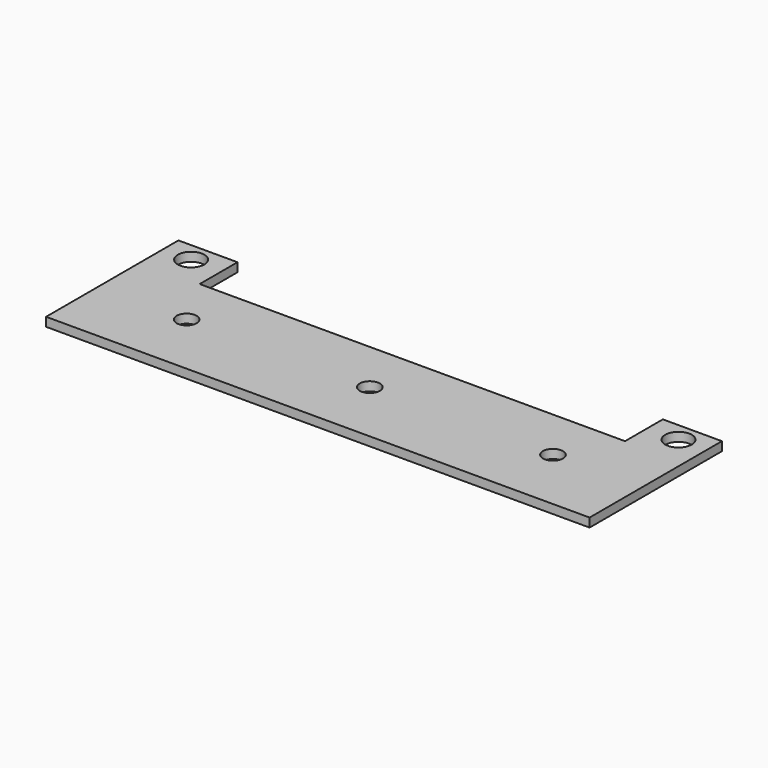
from build123d import *

# Parameters (mm, degrees)
PAD_DEPTH     = 1.5
SKETCH001_R   = 1.7
HOLE_DEPTH    = 25
SKETCH002_R   = 2.25
HOLE001_DEPTH = 25


with BuildPart() as part:
    # Sketch → Pad (new body)
    with BuildSketch(Plane.XY):
        Polygon((-36, 14), (-46, 14), (-46, -14), (46, -14), (46, 14), (36, 14), (36, 6), (-36, 6), align=None)
    extrude(amount=PAD_DEPTH)

    # Sketch001 (on Face10 of Pad) → Hole (cut)
    with BuildSketch(Plane.XY.offset(1.5)):
        with Locations((31, -3)):
            Circle(SKETCH001_R)
        with Locations((0, -3)):
            Circle(SKETCH001_R)
        with Locations((-31, -3)):
            Circle(SKETCH001_R)
    extrude(amount=-HOLE_DEPTH, mode=Mode.SUBTRACT)

    # Sketch002 (on Face5 of Hole) → Hole001 (cut)
    with BuildSketch(Plane.XY.offset(1.5)):
        with Locations((-41.25, 10.75)):
            Circle(SKETCH002_R)
        with Locations((41.25, 10.75)):
            Circle(SKETCH002_R)
    extrude(amount=-HOLE001_DEPTH, mode=Mode.SUBTRACT)


solid = part.part
